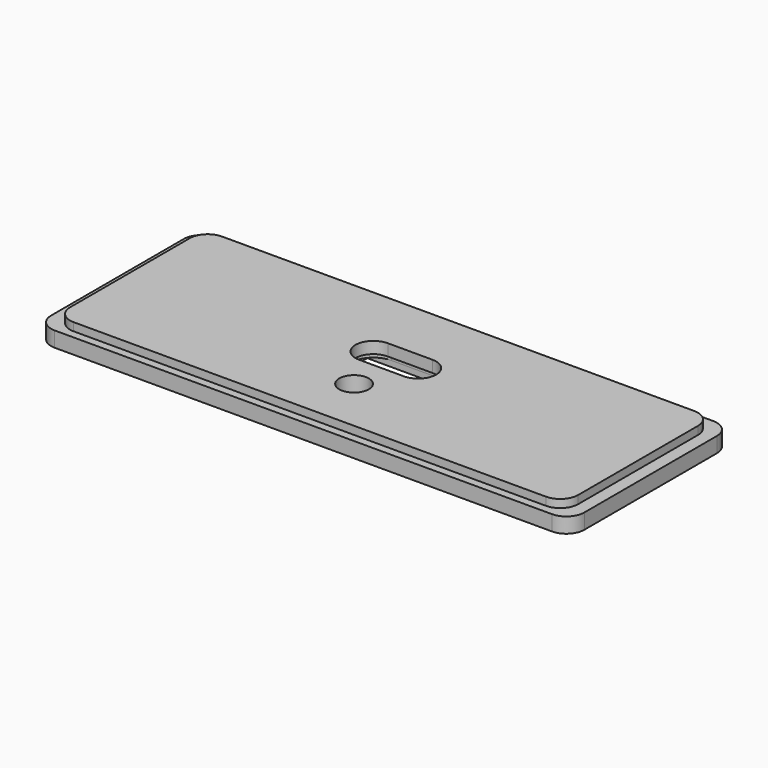
from build123d import *

# Parameters (mm, degrees)
SKETCH_W        = 59.5
SKETCH_H        = 22.5
PAD_DEPTH       = 1.7
SKETCH001_W     = 56.7
SKETCH001_H     = 20.7
PAD001_DEPTH    = 0.9
SKETCH002_W     = 10.5
SKETCH002_H     = 5.15
POCKET_DEPTH    = 0.7
POCKET001_DEPTH = 0.6
SKETCH004_R     = 1.65
POCKET002_DEPTH = 1.901
FILLET_R        = 2


with BuildPart() as part:
    # Sketch → Pad (new body)
    with BuildSketch(Plane.XY):
        Rectangle(SKETCH_W, SKETCH_H)
    extrude(amount=PAD_DEPTH)

    # Sketch001 (on Face6 of Pad) → Pad001 (join)
    with BuildSketch(Plane.XY.offset(1.7)):
        Rectangle(SKETCH001_W, SKETCH001_H)
    extrude(amount=PAD001_DEPTH)

    # Sketch002 (on Face4 of Pad001) → Pocket (cut)
    with BuildSketch(Plane(origin=(0, 0, 0), x_dir=(1, 0, 0), z_dir=(0, 0, -1))):
        Polygon((3.175426, 4.175), (1.587713, 6.925), (-1.587713, 6.925), (-3.175426, 4.175), (-1.587713, 1.425), (1.587713, 1.425), align=None)
        with Locations((0, -1.65)):
            Rectangle(SKETCH002_W, SKETCH002_H)
    extrude(amount=-POCKET_DEPTH, mode=Mode.SUBTRACT)

    # Sketch003 (on Face21 of Pocket) → Pocket001 (cut)
    with BuildSketch(Plane(origin=(0, 0, 0.7), x_dir=(1, 0, 0), z_dir=(0, 0, -1))):
        with BuildLine():
            ThreePointArc((-2.5, 0.85), (-5, -1.65), (-2.5, -4.15))
            Line((-2.5, -4.15), (2.5, -4.15))
            ThreePointArc((2.5, -4.15), (5, -1.65), (2.5, 0.85))
            Line((-2.5, 0.85), (2.5, 0.85))
        make_face()
    extrude(amount=-POCKET001_DEPTH, mode=Mode.SUBTRACT)

    # Sketch004 (on Face22 of Pocket001) → Pocket002 (cut, through all)
    with BuildSketch(Plane(origin=(0, 0, 0.7), x_dir=(1, 0, 0), z_dir=(0, 0, -1))):
        with Locations((0, 4.175)):
            Circle(SKETCH004_R)
        with BuildLine():
            ThreePointArc((-2.5, 0.35), (-4.5, -1.65), (-2.5, -3.65))
            Line((-2.5, -3.65), (2.5, -3.65))
            ThreePointArc((2.5, -3.65), (4.5, -1.65), (2.5, 0.35))
            Line((-2.5, 0.35), (2.5, 0.35))
        make_face()
    extrude(amount=-POCKET002_DEPTH, mode=Mode.SUBTRACT)

    # Fillet
    fillet_edges = [part.edges().sort_by_distance(p)[0] for p in [
        (-29.75, -11.25, 0.85),
        (-28.35, -10.35, 2.15),
        (-29.75, 11.25, 0.85),
        (-28.35, 10.35, 2.15),
        (28.35, -10.35, 2.15),
        (29.75, -11.25, 0.85),
        (28.35, 10.35, 2.15),
        (29.75, 11.25, 0.85),
    ]]
    fillet(fillet_edges, radius=FILLET_R)


solid = part.part
